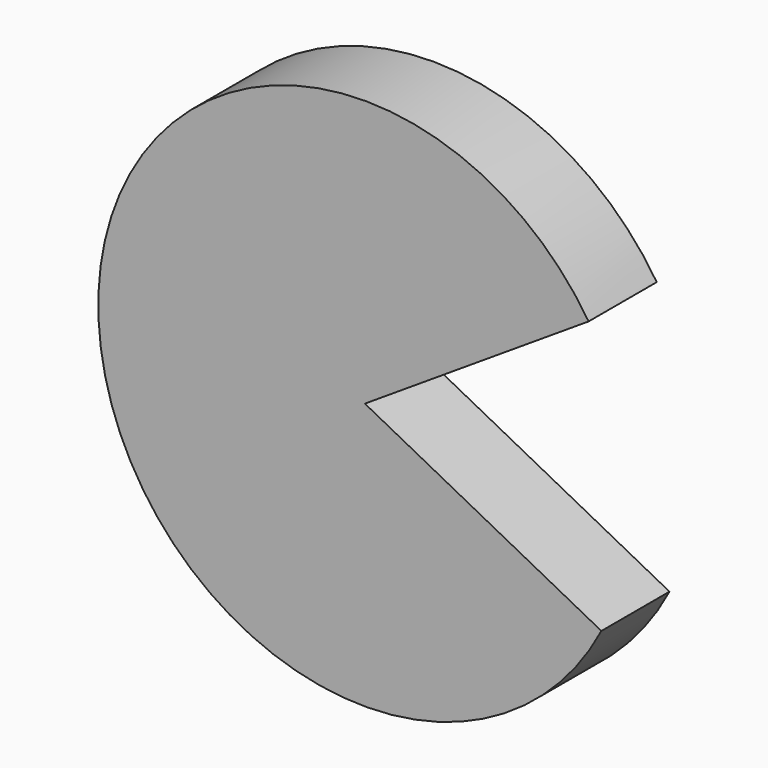
from build123d import *

# Parameters (mm, degrees)
F1_DEPTH = 10
F2_R     = 6.900974
F2_R_2   = 5
F3_DEPTH = 25


with BuildPart() as f1:
    # F0 (on Front) → F1 (new body)
    with BuildSketch(Plane.XZ):
        with BuildLine():
            Line((0, 0), (26.270265, 17.038709))
            ThreePointArc((26.270265, 17.038709), (-31.276748, -1.486424), (27.767739, -14.470559))
            Line((27.767739, -14.470559), (0, 0))
        make_face()
    extrude(amount=F1_DEPTH)

    # F2 (on face) → F3 (join)
    with BuildSketch(Plane(origin=(0, 0, 0), x_dir=(-1, 0, 0), z_dir=(0, 1, 0))):
        with Locations((9.188504, 0)):
            Circle(F2_R)
        with Locations((9.188504, 0)):
            Circle(F2_R_2, mode=Mode.SUBTRACT)
    extrude(amount=F3_DEPTH)


solid = f1.part
